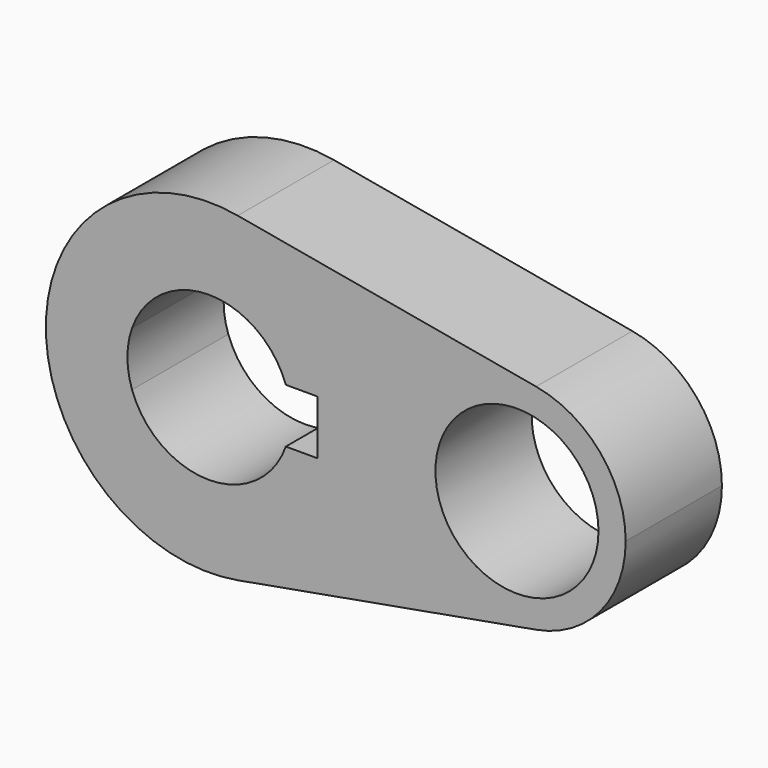
from build123d import *

# Parameters (mm, degrees)
F0_R     = 14.2875
F1_DEPTH = 21.082


with BuildPart() as f1:
    # F0 (on Front) → F1 (new body)
    with BuildSketch(Plane.XZ):
        with BuildLine():
            ThreePointArc((5.042647, -28.126541), (21.916025, -18.336262), (28.575, 0))
            ThreePointArc((28.575, 0), (21.916025, 18.336262), (5.042647, 28.126541))
            ThreePointArc((5.042647, 28.126541), (-28.575, 0), (5.042647, -28.126541))
        make_face()
        with BuildLine():
            ThreePointArc((-13.470384, 4.7625), (0, 14.2875), (13.470384, 4.7625))
            Line((13.470384, 4.7625), (19.05, 4.7625))
            Line((19.05, 4.7625), (19.05, -4.7625))
            Line((19.05, -4.7625), (13.470384, -4.7625))
            ThreePointArc((13.470384, -4.7625), (0, -14.2875), (-13.470384, -4.7625))
            Line((-13.470384, -4.7625), (-19.05, -4.7625))
            Line((-19.05, -4.7625), (-19.05, 4.7625))
            Line((-19.05, 4.7625), (-13.470384, 4.7625))
        make_face(mode=Mode.SUBTRACT)
        with BuildLine():
            ThreePointArc((5.042647, 28.126541), (21.916025, 18.336262), (28.575, 0))
            ThreePointArc((28.575, 0), (21.916025, -18.336262), (5.042647, -28.126541))
            Line((5.042647, -28.126541), (57.336765, -18.751028))
            ThreePointArc((57.336765, -18.751028), (34.925, 0), (57.336765, 18.751028))
            Line((57.336765, 18.751028), (5.042647, 28.126541))
        make_face()
        with BuildLine():
            ThreePointArc((73.025, 0), (68.585683, 12.224174), (57.336765, 18.751028))
            ThreePointArc((57.336765, 18.751028), (34.925, 0), (57.336765, -18.751028))
            ThreePointArc((57.336765, -18.751028), (68.585683, -12.224174), (73.025, 0))
        make_face()
        with Locations((53.975, 0)):
            Circle(F0_R, mode=Mode.SUBTRACT)
        with BuildLine():
            ThreePointArc((-13.470384, -4.7625), (-14.2875, 0), (-13.470384, 4.7625))
            Line((-13.470384, 4.7625), (-19.05, 4.7625))
            Line((-19.05, 4.7625), (-19.05, -4.7625))
            Line((-19.05, -4.7625), (-13.470384, -4.7625))
        make_face()
    extrude(amount=F1_DEPTH)


solid = f1.part
